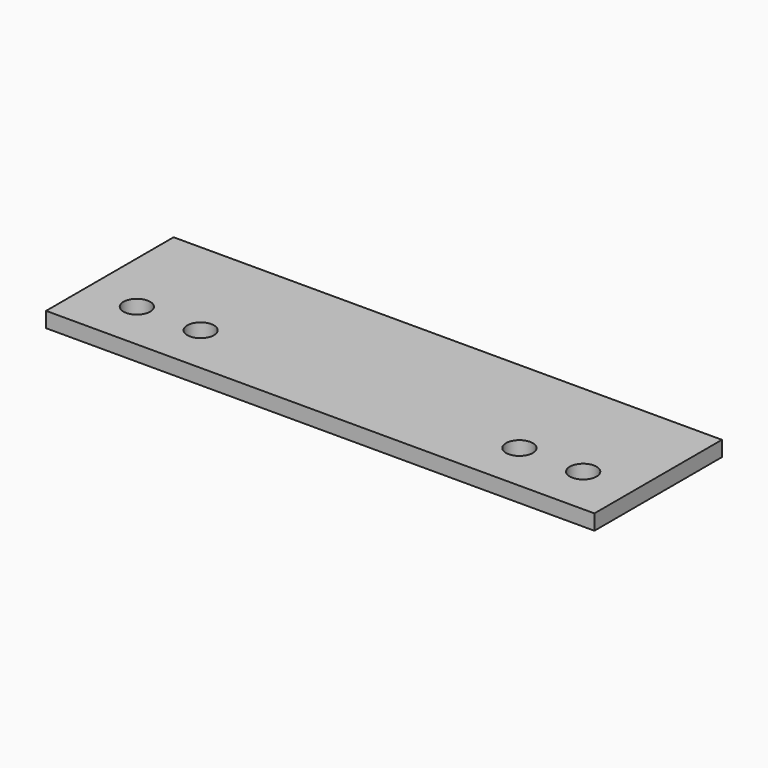
from build123d import *

# Parameters (mm, degrees)
F0_W     = 215
F0_H     = 125
F0_R     = 10.5
F1_DEPTH = 12


with BuildPart() as f1:
    # F0 (on Top) → F1 (new body)
    with BuildSketch(Plane.XY):
        with Locations((107.5, 62.5)):
            Rectangle(F0_W, F0_H)
        with Locations((40, 39)):
            Circle(F0_R, mode=Mode.SUBTRACT)
        with Locations((90, 39)):
            Circle(F0_R, mode=Mode.SUBTRACT)
        with Locations((322.5, 62.5)):
            Rectangle(F0_W, F0_H)
        with Locations((340, 39)):
            Circle(F0_R, mode=Mode.SUBTRACT)
        with Locations((390, 39)):
            Circle(F0_R, mode=Mode.SUBTRACT)
    extrude(amount=F1_DEPTH)


solid = f1.part
